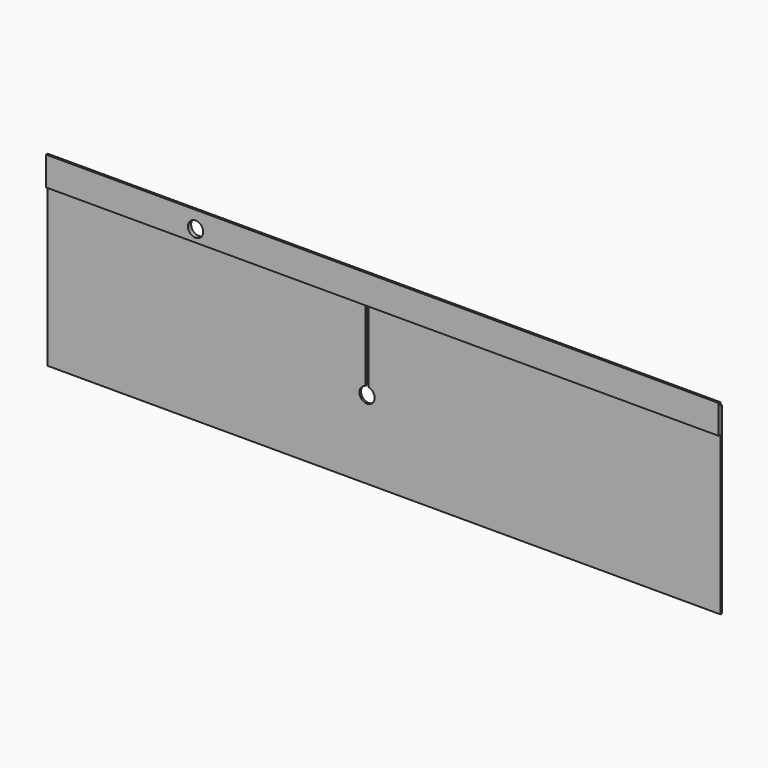
from build123d import *

# Parameters (mm, degrees)
F0_W      = 1980
F0_H      = 550
F1_DEPTH  = 6
F2_W      = 1980
F2_H      = 85
F3_DEPTH  = 6
F4_R      = 22.5
F5_DEPTH  = 6.001
F6_W      = 10
F6_H      = 320
F6_H_2    = 50
F7_DEPTH  = 6.001
F8_W      = 1980
F8_H      = 10
F9_DEPTH  = 6.001
F10_R     = 22.5
F11_DEPTH = 25


with BuildPart() as f1:
    # F0 (on Front) → F1 (new body)
    with BuildSketch(Plane.XZ):
        with Locations((0, 275)):
            Rectangle(F0_W, F0_H)
    extrude(amount=F1_DEPTH)

    # F4 (on face) → F5 (cut, through all)
    with BuildSketch(Plane.XZ.offset(6)):
        with Locations((-50, 230)):
            Circle(F4_R)
        with Locations((-550, 500)):
            Circle(F4_R)
    extrude(amount=-F5_DEPTH, mode=Mode.SUBTRACT)

    # F6 (on face) → F7 (cut, through all)
    with BuildSketch(Plane.XZ.offset(6)):
        with Locations((-50, 390)):
            Rectangle(F6_W, F6_H)
        with Locations((-550, 525)):
            Rectangle(F6_W, F6_H_2)
    extrude(amount=-F7_DEPTH, mode=Mode.SUBTRACT)

    # F8 (on face) → F9 (cut, through all)
    with BuildSketch(Plane.XZ.offset(6)):
        with Locations((0, 545)):
            Rectangle(F8_W, F8_H)
    extrude(amount=-F9_DEPTH, mode=Mode.SUBTRACT)


with BuildPart() as f3:
    # F2 (on face) → F3 (new body)
    with BuildSketch(Plane.XZ.offset(6)):
        with Locations((0, 507.5)):
            Rectangle(F2_W, F2_H)
    extrude(amount=F3_DEPTH)

    # F10 (on face) → F11 (cut)
    with BuildSketch(Plane(origin=(0, -6, 0), x_dir=(-1, 0, 0), z_dir=(0, 1, 0))):
        with Locations((550, 500)):
            Circle(F10_R)
    extrude(amount=-F11_DEPTH, mode=Mode.SUBTRACT)


solid = Compound([f1.part, f3.part])
